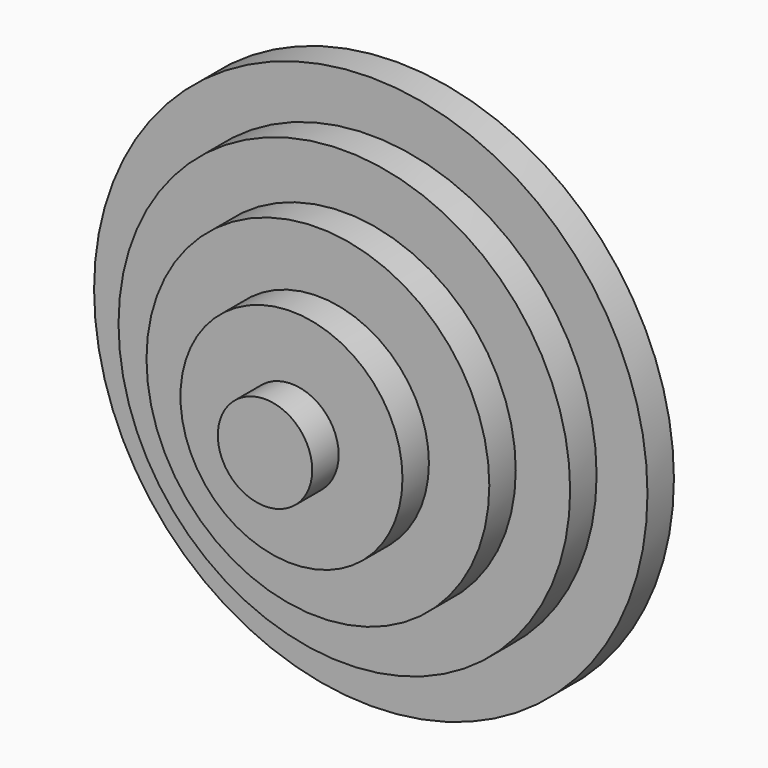
from build123d import *

# Parameters (mm, degrees)
F0_R     = 25.118171
F0_R_2   = 20.499511
F1_DEPTH = 3
F0_R_3   = 15.56051
F2_DEPTH = 6
F0_R_4   = 10.077098
F3_DEPTH = 9
F0_R_5   = 4.284834
F4_DEPTH = 12
F0_R_6   = 1.253912
F5_DEPTH = 15
F6_DEPTH = 15
F7_DEPTH = 15


with BuildPart() as f1:
    # F0 (on Front) → F1 (new body)
    with BuildSketch(Plane.XZ):
        Circle(F0_R)
        Circle(F0_R_2, mode=Mode.SUBTRACT)
    extrude(amount=F1_DEPTH)

    # F0 (on Front) → F2 (join)
    with BuildSketch(Plane.XZ):
        Circle(F0_R_2)
        Circle(F0_R_3, mode=Mode.SUBTRACT)
    extrude(amount=F2_DEPTH)

    # F0 (on Front) → F3 (join)
    with BuildSketch(Plane.XZ):
        Circle(F0_R_3)
        Circle(F0_R_4, mode=Mode.SUBTRACT)
    extrude(amount=F3_DEPTH)

    # F0 (on Front) → F4 (join)
    with BuildSketch(Plane.XZ):
        Circle(F0_R_4)
        Circle(F0_R_5, mode=Mode.SUBTRACT)
    extrude(amount=F4_DEPTH)

    # F0 (on Front) → F5 (join)
    with BuildSketch(Plane.XZ):
        Circle(F0_R_5)
        Circle(F0_R_6, mode=Mode.SUBTRACT)
    extrude(amount=F5_DEPTH)

    # F0 (on Front) → F6 (join)
    with BuildSketch(Plane.XZ):
        Circle(F0_R_6)
    extrude(amount=F6_DEPTH)

    # F0 (on Front) → F7 (join)
    with BuildSketch(Plane.XZ):
        Circle(F0_R_6)
    extrude(amount=-F7_DEPTH)


solid = f1.part
